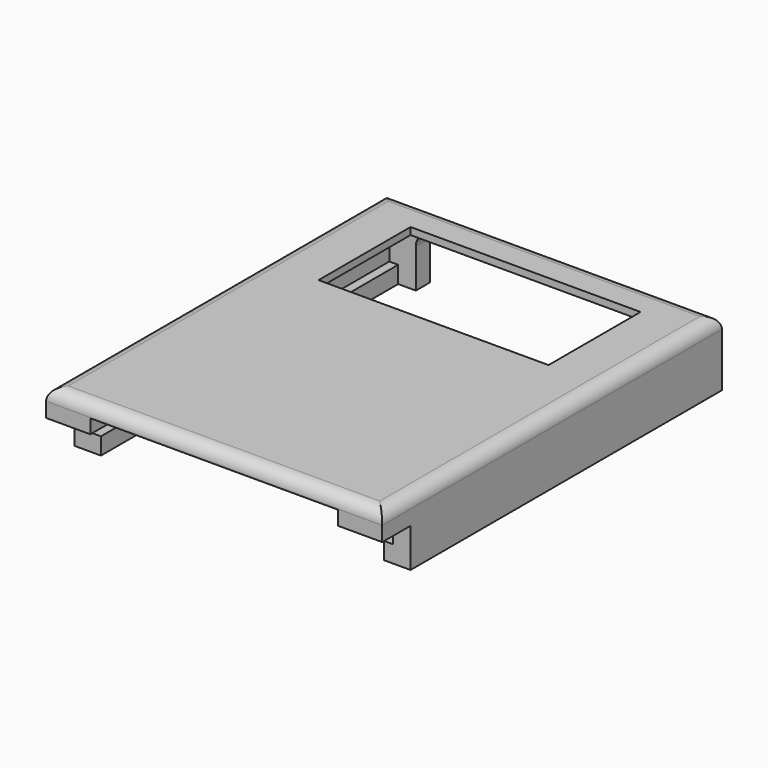
from build123d import *

# Parameters (mm, degrees)
PAD008_DEPTH    = 4.8
SKETCH012_W     = 5
SKETCH012_H     = 110
SKETCH012_H_2   = 105
SKETCH012_W_2   = 90
SKETCH012_H_3   = 5
PAD009_DEPTH    = 0.2
PAD010_DEPTH    = 6
SKETCH024_W     = 95
SKETCH024_H     = 120
PAD021_DEPTH    = 5.67
SKETCH025_W     = 65
SKETCH025_H     = 32.5
PAD022_DEPTH    = 2
FILLET004_R     = 3.5
SKETCH029_W     = 1.25
SKETCH029_H     = 105
POCKET006_DEPTH = 5
SKETCH030_W     = 70
SKETCH030_H     = 5
POCKET007_DEPTH = 15
FILLET006_R     = 4
SKETCH032_W     = 70
SKETCH032_H     = 7.5
POCKET008_DEPTH = 4


with BuildPart() as part:
    # Sketch011 → Pad008 (new body)
    with BuildSketch(Plane.XY):
        Polygon((0, 0), (95, 0), (95, -5), (95, -110), (86.25, -110), (86.25, -5), (8.75, -5), (8.75, -110), (0, -110), (0, -5), align=None)
    extrude(amount=PAD008_DEPTH)

    # Sketch012 (on Face12 of Pad008) → Pad009 (join)
    with BuildSketch(Plane.XY.offset(4.8)):
        with Locations((2.5, -55)):
            Rectangle(SKETCH012_W, SKETCH012_H)
        with Locations((92.5, -57.5)):
            Rectangle(SKETCH012_W, SKETCH012_H_2)
        with Locations((50, -2.5)):
            Rectangle(SKETCH012_W_2, SKETCH012_H_3)
    extrude(amount=PAD009_DEPTH)

    # Pad009 Face16 → Pad010 (add)
    with BuildSketch(Plane(origin=(47.5, -40.368852, 5), x_dir=(0, 1, 0), z_dir=(0, 0, 1))):
        Polygon((40.368852, 42.5), (40.368852, 47.5), (-69.631148, 47.5), (-69.631148, 42.5), (35.368852, 42.5), (35.368852, -42.5), (-69.631148, -42.5), (-69.631148, -47.5), (35.368852, -47.5), (40.368852, -47.5), align=None)
    extrude(amount=PAD010_DEPTH)

    # Sketch024 (on Face27 of Pad010) → Pad021 (join)
    with BuildSketch(Plane.XY.offset(11)):
        with Locations((47.5, -60)):
            Rectangle(SKETCH024_W, SKETCH024_H)
        Polygon((5, -5), (90, -5), (90, -110), (82.5, -110), (82.5, -112.5), (12.5, -112.5), (12.5, -110), (5, -110), align=None, mode=Mode.SUBTRACT)
    extrude(amount=PAD021_DEPTH)

    # Sketch025 (on Face37 of Pad021) → Pad022 (join)
    with BuildSketch(Plane.XY.offset(16.67)):
        Polygon((0, -120), (95, -120), (95, -42.5), (95, -10), (95, 0), (15, 0), (0, 0), (0, -42.5), align=None)
        with Locations((47.5, -26.25)):
            Rectangle(SKETCH025_W, SKETCH025_H, mode=Mode.SUBTRACT)
    extrude(amount=PAD022_DEPTH)

    # Fillet004
    fillet004_edges = [part.edges().sort_by_distance(p)[0] for p in [
        (0, -81.25, 18.67),
        (47.5, -120, 18.67),
        (55, 0, 18.67),
        (95, -81.25, 18.67),
    ]]
    fillet(fillet004_edges, radius=FILLET004_R)

    # Sketch029 (on Face48 of Fillet004) → Pocket006 (cut)
    with BuildSketch(Plane(origin=(0, 0, 0), x_dir=(1, 0, 0), z_dir=(0, 0, -1))):
        with Locations((8.125, 57.5)):
            Rectangle(SKETCH029_W, SKETCH029_H)
        with Locations((86.875, 57.5)):
            Rectangle(SKETCH029_W, SKETCH029_H)
    extrude(amount=-POCKET006_DEPTH, mode=Mode.SUBTRACT)

    # Sketch030 (on Face48 of Pocket006) → Pocket007 (cut)
    with BuildSketch(Plane(origin=(0, 0, 0), x_dir=(1, 0, 0), z_dir=(0, 0, -1))):
        with Locations((47.5, 2.5)):
            Rectangle(SKETCH030_W, SKETCH030_H)
    extrude(amount=-POCKET007_DEPTH, mode=Mode.SUBTRACT)

    # Fillet006
    fillet006_edges = [part.edges().sort_by_distance(p)[0] for p in [
        (12.5, -2.5, 15),
        (82.5, -2.5, 15),
    ]]
    fillet(fillet006_edges, radius=FILLET006_R)

    # Sketch032 (on Face20 of Fillet006) → Pocket008 (cut)
    with BuildSketch(Plane(origin=(0, 0, 11), x_dir=(1, 0, 0), z_dir=(0, 0, -1))):
        with Locations((47.5, 116.25)):
            Rectangle(SKETCH032_W, SKETCH032_H)
    extrude(amount=-POCKET008_DEPTH, mode=Mode.SUBTRACT)


with BuildPart() as part_1:
    # Body001 placement: moved
    add(part.part.moved(Location((-15, 10, -3))))


solid = part_1.part
